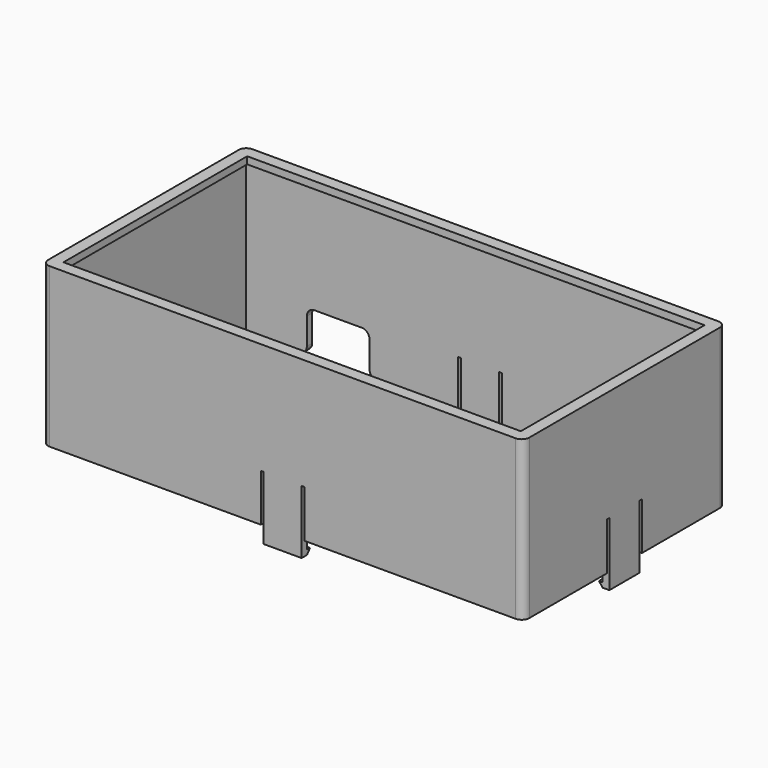
from build123d import *

# Parameters (mm, degrees)
SKETCH003_W     = 128.778
SKETCH003_H     = 67.818
SKETCH003_W_2   = 122.428
SKETCH003_H_2   = 61.468
PAD002_DEPTH    = 1.905
SKETCH004_W     = 128.778
SKETCH004_H     = 67.818
SKETCH004_W_2   = 125.222
SKETCH004_H_2   = 64.262
PAD003_DEPTH    = 40.64
SKETCH009_W     = 10.16
SKETCH009_H     = 1.778
SKETCH009_W_2   = 1.778
SKETCH009_H_2   = 10.16
PAD008_DEPTH    = 4.318
PAD009_DEPTH    = 10.16
PAD010_DEPTH    = 10.16
FILLET001_R     = 2.032
SKETCH013_W     = 0.762
SKETCH013_H     = 2.54
SKETCH013_W_2   = 2.54
SKETCH013_H_2   = 0.762
POCKET_DEPTH    = 12.7
SKETCH018_W     = 16.764
SKETCH018_H     = 11.176
POCKET002_DEPTH = 1.778
FILLET002_R     = 2.032


with BuildPart() as part:
    # Sketch003 → Pad002 (new body)
    with BuildSketch(Plane.XY.offset(8.636)):
        Rectangle(SKETCH003_W, SKETCH003_H)
        Rectangle(SKETCH003_W_2, SKETCH003_H_2, mode=Mode.SUBTRACT)
    extrude(amount=PAD002_DEPTH)

    # Sketch004 → Pad003 (new body)
    with BuildSketch(Plane(origin=(0, 0, 8.636), x_dir=(1, 0, 0), z_dir=(0, 0, -1))):
        Rectangle(SKETCH004_W, SKETCH004_H)
        Rectangle(SKETCH004_W_2, SKETCH004_H_2, mode=Mode.SUBTRACT)
    extrude(amount=PAD003_DEPTH)

    # Sketch009 → Pad008 (new body)
    with BuildSketch(Plane(origin=(0, 0, -32.004), x_dir=(1, 0, 0), z_dir=(0, 0, -1))):
        with Locations((0, 33.02)):
            Rectangle(SKETCH009_W, SKETCH009_H)
        with Locations((0, -33.02)):
            Rectangle(SKETCH009_W, SKETCH009_H)
        with Locations((-63.5, 0)):
            Rectangle(SKETCH009_W_2, SKETCH009_H_2)
        with Locations((63.5, 0)):
            Rectangle(SKETCH009_W_2, SKETCH009_H_2)
    extrude(amount=PAD008_DEPTH)

    # Sketch010 → Pad009 (new body)
    with BuildSketch(Plane(origin=(-5.08, 0, 8.636), x_dir=(0, -1, 0), z_dir=(-1, 0, 0))):
        Polygon((-32.131, -44.958), (-32.131, -43.688), (-31.115, -43.688), align=None)
        Polygon((32.131, -44.958), (32.131, -43.688), (31.115, -43.688), align=None)
    extrude(amount=-PAD009_DEPTH)

    # Sketch011 → Pad010 (new body)
    with BuildSketch(Plane(origin=(0, -5.08, 8.636), x_dir=(1, 0, 0), z_dir=(0, -1, 0))):
        Polygon((-62.611, -44.958), (-62.611, -43.688), (-61.595, -43.688), align=None)
        Polygon((62.611, -44.958), (62.611, -43.688), (61.595, -43.688), align=None)
    extrude(amount=-PAD010_DEPTH)

    # Fillet001
    fillet001_edges = [part.edges().sort_by_distance(p)[0] for p in [
        (64.389, -33.909, 9.5885),
        (64.389, -33.909, -11.684),
        (64.389, 33.909, 9.5885),
        (64.389, 33.909, -11.684),
        (-64.389, 33.909, -11.684),
        (-64.389, 33.909, 9.5885),
        (-64.389, -33.909, -11.684),
        (-64.389, -33.909, 9.5885),
    ]]
    fillet(fillet001_edges, radius=FILLET001_R)

    # Sketch013 → Pocket (cut)
    with BuildSketch(Plane(origin=(0, 0, -32.004), x_dir=(1, 0, 0), z_dir=(0, 0, -1))):
        with Locations((-5.461, 32.639)):
            Rectangle(SKETCH013_W, SKETCH013_H)
        with Locations((5.461, 32.639)):
            Rectangle(SKETCH013_W, SKETCH013_H)
        with Locations((-5.461, -32.639)):
            Rectangle(SKETCH013_W, SKETCH013_H)
        with Locations((5.461, -32.639)):
            Rectangle(SKETCH013_W, SKETCH013_H)
        with Locations((-63.119, 5.461)):
            Rectangle(SKETCH013_W_2, SKETCH013_H_2)
        with Locations((-63.119, -5.461)):
            Rectangle(SKETCH013_W_2, SKETCH013_H_2)
        with Locations((63.119, 5.461)):
            Rectangle(SKETCH013_W_2, SKETCH013_H_2)
        with Locations((63.119, -5.461)):
            Rectangle(SKETCH013_W_2, SKETCH013_H_2)
    extrude(amount=-POCKET_DEPTH, mode=Mode.SUBTRACT)

    # Sketch018 → Pocket002 (cut)
    with BuildSketch(Plane(origin=(0, 33.909, 8.636), x_dir=(-1, 0, 0), z_dir=(0, 1, 0))):
        with Locations((37.973, -35.052)):
            Rectangle(SKETCH018_W, SKETCH018_H)
    extrude(amount=-POCKET002_DEPTH, mode=Mode.SUBTRACT)

    # Fillet002
    fillet002_edges = [part.edges().sort_by_distance(p)[0] for p in [
        (-46.355, 33.02, -32.004),
        (-46.355, 33.02, -20.828),
        (-29.591, 33.02, -20.828),
        (-29.591, 33.02, -32.004),
    ]]
    fillet(fillet002_edges, radius=FILLET002_R)


solid = part.part
